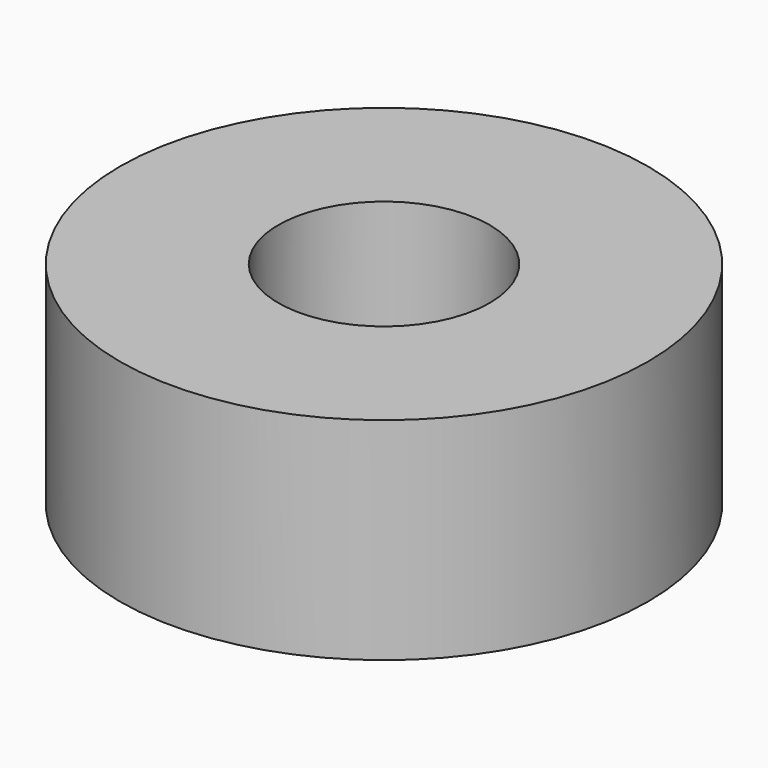
from build123d import *

# Parameters (mm, degrees)
F0_R     = 12.5
F0_R_2   = 5
F1_DEPTH = 10


with BuildPart() as f1:
    # F0 (on Top) → F1 (new body)
    with BuildSketch(Plane.XY):
        Circle(F0_R)
        Circle(F0_R_2, mode=Mode.SUBTRACT)
        Circle(F0_R)
        Circle(F0_R_2, mode=Mode.SUBTRACT)
    extrude(amount=F1_DEPTH)


solid = f1.part
